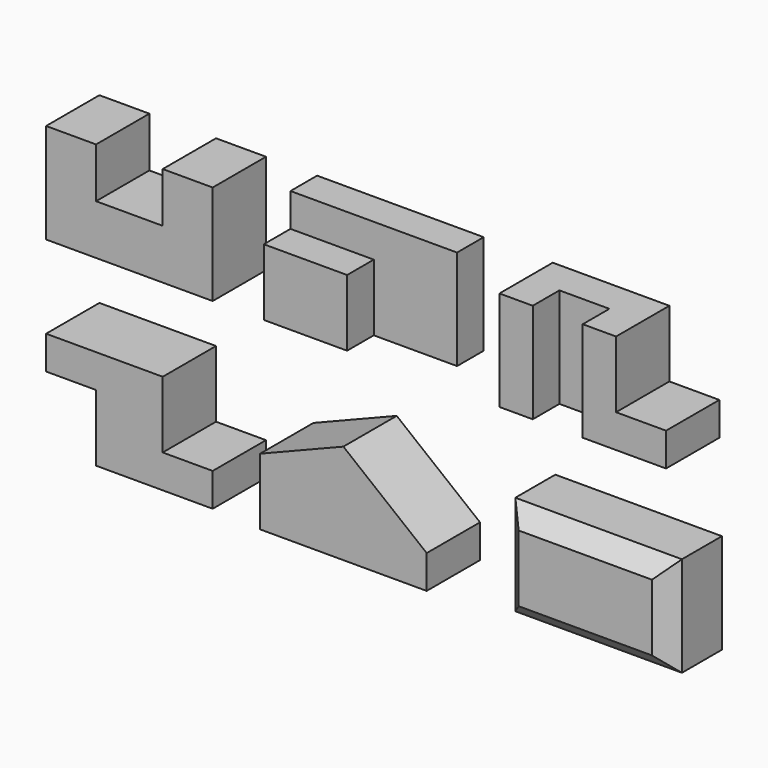
from build123d import *

# Parameters (mm, degrees)
F1_DEPTH  = 101.6
F3_DEPTH  = 152.4
F5_DEPTH  = 152.4
F6_W      = 127
F6_H      = 50.8
F7_DEPTH  = 50.8
F8_W      = 101.6
F8_H      = 101.6
F9_DEPTH  = 76.2
F10_W     = 254
F10_H     = 152.4
F11_DEPTH = 101.6
F12_W     = 76.2
F12_H     = 101.6
F13_DEPTH = 101.6
F14_W     = 254
F14_H     = 152.4
F15_DEPTH = 101.6
F17_DEPTH = 101.6
F19_DEPTH = 101.6
F20_W     = 254
F20_H     = 152.4
F21_DEPTH = 101.6
F22_SIZE  = 25.4
F23_SIZE  = 25.4
F24_SIZE  = 25.4
F25_SIZE  = 25.4


with BuildPart() as f1:
    # F0 (on Front) → F1 (new body)
    with BuildSketch(Plane.XZ):
        Polygon((0, 152.4), (0, 0), (254, 0), (254, 152.4), (177.8, 152.4), (177.8, 76.2), (76.2, 76.2), (76.2, 152.4), align=None)
    extrude(amount=-F1_DEPTH)


with BuildPart() as f3:
    # F2 (on Top) → F3 (new body)
    with BuildSketch(Plane.XY):
        Polygon((331.959809, 101.6), (331.959809, 0), (458.959809, 0), (458.959809, 50.8), (585.959809, 50.8), (585.959809, 101.6), align=None)
    extrude(amount=F3_DEPTH)

    # F6 (on face) → F7 (cut)
    with BuildSketch(Plane.XZ):
        with Locations((395.459809, 127)):
            Rectangle(F6_W, F6_H)
    extrude(amount=-F7_DEPTH, mode=Mode.SUBTRACT)


with BuildPart() as f5:
    # F4 (on Top) → F5 (new body)
    with BuildSketch(Plane.XY):
        Polygon((691.204082, 101.6), (691.204082, 0), (742.004082, 0), (742.004082, 50.8), (818.204082, 50.8), (818.204082, 0), (945.204082, 0), (945.204082, 101.6), align=None)
    extrude(amount=F5_DEPTH)

    # F8 (on face) → F9 (cut)
    with BuildSketch(Plane.YZ.offset(945.204082)):
        with Locations((50.8, 101.6)):
            Rectangle(F8_W, F8_H)
    extrude(amount=-F9_DEPTH, mode=Mode.SUBTRACT)


with BuildPart() as f11:
    # F10 (on Front) → F11 (new body)
    with BuildSketch(Plane.XZ):
        with Locations((127, -202.606321)):
            Rectangle(F10_W, F10_H)
    extrude(amount=-F11_DEPTH)

    # F12 (on face) → F13 (cut)
    with BuildSketch(Plane.XZ):
        with Locations((38.1, -228.006321)):
            Rectangle(F12_W, F12_H)
        with Locations((215.9, -177.206321)):
            Rectangle(F12_W, F12_H)
    extrude(amount=-F13_DEPTH, mode=Mode.SUBTRACT)


with BuildPart() as f15:
    # F14 (on Front) → F15 (new body)
    with BuildSketch(Plane.XZ):
        with Locations((453.286525, -206.764647)):
            Rectangle(F14_W, F14_H)
    extrude(amount=-F15_DEPTH)

    # F16 (on face) → F17 (cut)
    with BuildSketch(Plane.XZ):
        Polygon((326.286525, -130.564647), (326.286525, -181.364647), (453.286525, -130.564647), align=None)
    extrude(amount=-F17_DEPTH, mode=Mode.SUBTRACT)

    # F18 (on face) → F19 (cut)
    with BuildSketch(Plane.XZ):
        Polygon((453.286525, -130.564647), (580.286525, -232.164647), (580.286525, -130.564647), align=None)
    extrude(amount=-F19_DEPTH, mode=Mode.SUBTRACT)


with BuildPart() as f21:
    # F20 (on Front) → F21 (new body)
    with BuildSketch(Plane.XZ):
        with Locations((822.136905, -207.031137)):
            Rectangle(F20_W, F20_H)
    extrude(amount=-F21_DEPTH)

    # F22
    f22_edges = [f21.edges().sort_by_distance(p)[0] for p in [
        (822.136905, 0, -130.831137),
    ]]
    chamfer(f22_edges, length=F22_SIZE)

    # F23
    f23_edges = [f21.edges().sort_by_distance(p)[0] for p in [
        (695.136905, 0, -219.731137),
    ]]
    chamfer(f23_edges, length=F23_SIZE)

    # F24
    f24_edges = [f21.edges().sort_by_distance(p)[0] for p in [
        (834.836905, 0, -283.231137),
    ]]
    chamfer(f24_edges, length=F24_SIZE)

    # F25
    f25_edges = [f21.edges().sort_by_distance(p)[0] for p in [
        (949.136905, 0, -207.031137),
    ]]
    chamfer(f25_edges, length=F25_SIZE)


solid = Compound([f1.part, f3.part, f5.part, f11.part, f15.part, f21.part])
